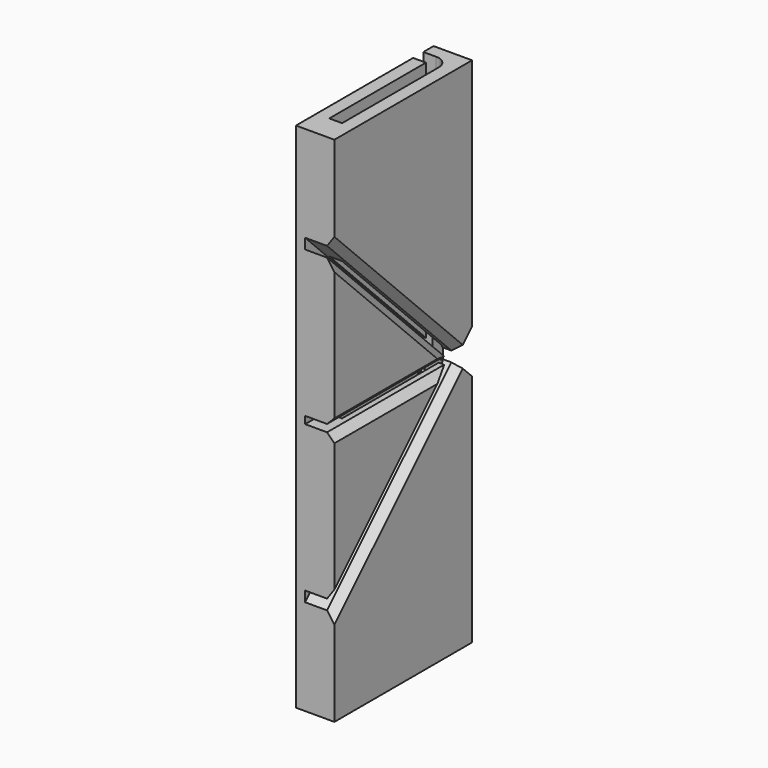
from build123d import *

# Parameters (mm, degrees)
PAD_DEPTH    = 70
POCKET_DEPTH = 8
CHAMFER_SIZE = 2


with BuildPart() as part:
    # Sketch → Pad (new body, symmetric)
    with BuildSketch(Plane.XY):
        with BuildLine():
            Line((0, 0), (0, 40))
            Line((0, 40), (3.5, 40))
            Line((3.5, 40), (3.5, 7))
            Line((3.5, 7), (7, 7))
            Line((7, 7), (7, 40))
            ThreePointArc((7, 40), (5.974874, 42.474874), (3.5, 43.5))
            Line((3.5, 43.5), (0, 43.5))
            Line((0, 43.5), (0, 47))
            Line((10.5, 47), (0, 47))
            Line((10.5, 47), (10.5, 0))
            Line((10.5, 0), (0, 0))
        make_face()
    extrude(amount=PAD_DEPTH, both=True)

    # Sketch001 (on Face1 of Pad) → Pocket (cut)
    with BuildSketch(Plane.YZ.offset(10.5)):
        Polygon((0, 1), (40, 1), (0, 41), (0, 43.828427), (42.414214, 1.414214), (62.414214, 21.414214), (62.414214, -21.414214), (42.414214, -1.414214), (0, -43.828427), (0, -41), (40, -1), (0, -1), align=None)
    extrude(amount=-POCKET_DEPTH, mode=Mode.SUBTRACT)

    # Chamfer
    chamfer_edges = [part.edges().sort_by_distance(p)[0] for p in [
        (10.5, 20, 1),
        (10.5, 20, -1),
        (10.5, 20, -21),
        (10.5, 21.207107, -22.62132),
        (10.5, 20, 21),
        (10.5, 21.207107, 22.62132),
    ]]
    chamfer(chamfer_edges, length=CHAMFER_SIZE)


solid = part.part
